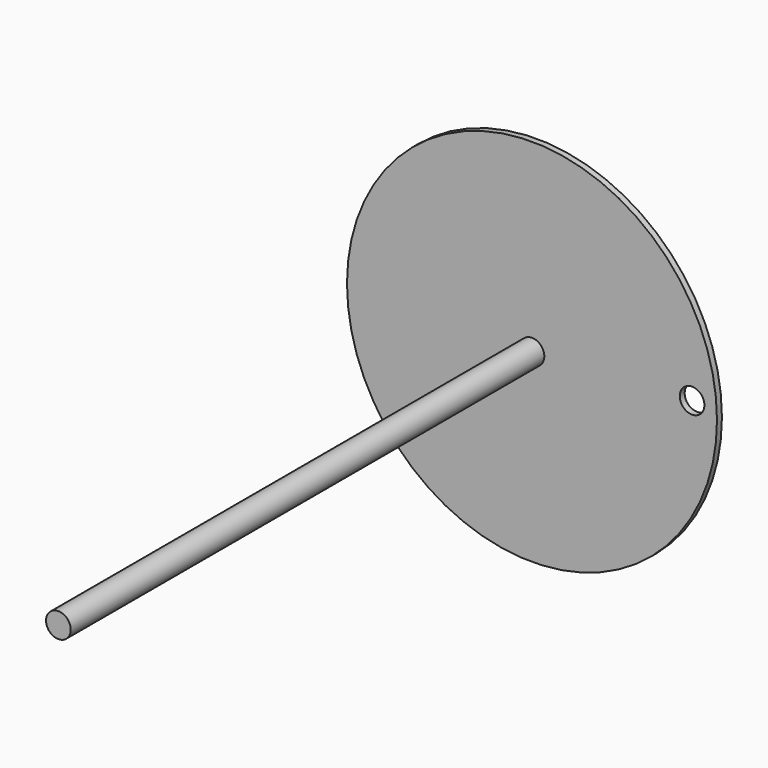
from build123d import *

# Parameters (mm, degrees)
F0_R          = 95.25
F0_R_2        = 6.35
F1_DEPTH      = 3.175
F2_R          = 6.35
F3_DEPTH      = 304.8
F3_DEPTH_BACK = 3.175


with BuildPart() as f1:
    # F0 (on Front) → F1 (new body)
    with BuildSketch(Plane.XZ):
        Circle(F0_R)
        Circle(F0_R_2, mode=Mode.SUBTRACT)
        with Locations((82.418951, 4.649631)):
            Circle(F0_R_2, mode=Mode.SUBTRACT)
    extrude(amount=-F1_DEPTH)

    # F2 (on face) → F3 (join, two sides)
    with BuildSketch(Plane.XZ) as f3_sk:
        Circle(F2_R)
    extrude(amount=F3_DEPTH)
    extrude(f3_sk.sketch, amount=-F3_DEPTH_BACK)


solid = f1.part
